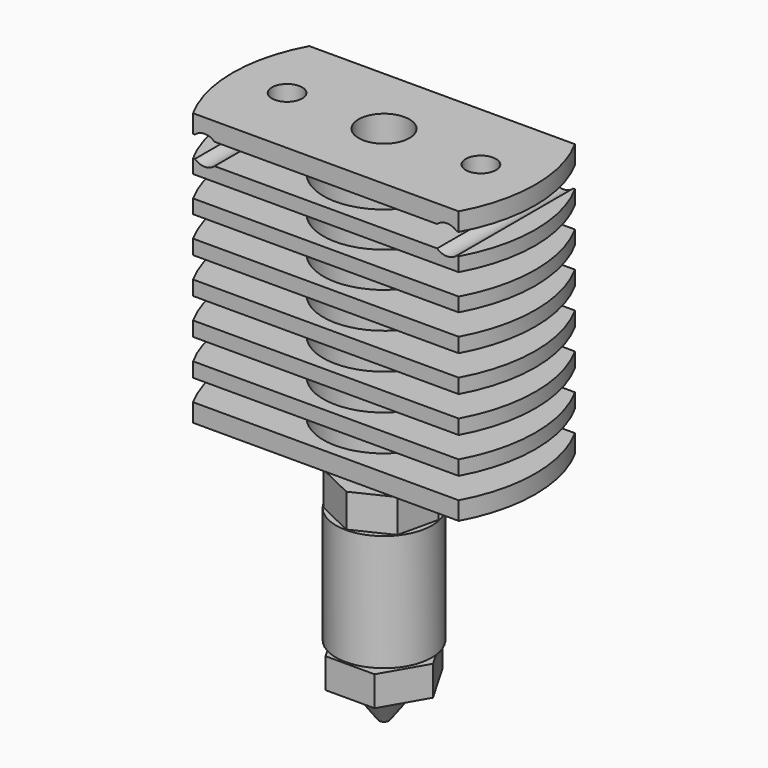
from build123d import *

# Parameters (mm, degrees)
F0_W      = 5
F0_H      = 1.5
F0_W_2    = 7.5
F0_H_2    = 1.7714285714
F0_H_3    = 1.15
F0_H_4    = 1.2
F2_W      = 21.9317121995
F2_H      = 6.5
F3_DEPTH  = 22.501
F5_D      = 4.2
F6_D      = 2.5
F6_DEPTH  = 2
F6_TIP    = 0.7510757738
F7_W      = 1.385
F7_H      = 19.28
F7_W_2    = 1.115
F7_H_2    = 2.3
F7_H_3    = 12.7
F10_DEPTH = 2.75
F12_D     = 3.3
F12_DEPTH = 5.5
F12_TIP   = 0.9914200214
F13_R     = 0.96
F14_DEPTH = 34.281
F15_R     = 3.96
F15_R_2   = 2.5
F16_DEPTH = 9.6
F19_R     = 0.97
F20_DEPTH = 2.47
F24_R     = 2.7289614246
F25_DEPTH = 4.22
F27_D     = 2.4


with BuildPart() as f1:
    # F0 (on Front) → F1 (revolve)
    with BuildSketch(Plane.XZ):
        with Locations((2.5, -0.75)):
            Rectangle(F0_W, F0_H)
        with Locations((8.75, -0.75)):
            Rectangle(F0_W_2, F0_H)
        with Locations((2.5, -2.3857142857)):
            Rectangle(F0_W, F0_H_2)
        with Locations((2.5, -3.8464285714)):
            Rectangle(F0_W, F0_H_3)
        with Locations((8.75, -3.8464285714)):
            Rectangle(F0_W_2, F0_H_3)
        with Locations((2.5, -5.3071428571)):
            Rectangle(F0_W, F0_H_2)
        with Locations((2.5, -6.7678571429)):
            Rectangle(F0_W, F0_H_3)
        with Locations((8.75, -6.7678571429)):
            Rectangle(F0_W_2, F0_H_3)
        with Locations((2.5, -8.2285714286)):
            Rectangle(F0_W, F0_H_2)
        with Locations((2.5, -9.7142857143)):
            Rectangle(F0_W, F0_H_4)
        with Locations((8.75, -9.7142857143)):
            Rectangle(F0_W_2, F0_H_4)
        with Locations((2.5, -11.2)):
            Rectangle(F0_W, F0_H_2)
        with Locations((2.5, -12.6857142857)):
            Rectangle(F0_W, F0_H_4)
        with Locations((8.75, -12.6857142857)):
            Rectangle(F0_W_2, F0_H_4)
        with Locations((2.5, -14.1714285714)):
            Rectangle(F0_W, F0_H_2)
        with Locations((2.5, -15.6571428571)):
            Rectangle(F0_W, F0_H_4)
        with Locations((8.75, -15.6571428571)):
            Rectangle(F0_W_2, F0_H_4)
        with Locations((2.5, -17.1428571429)):
            Rectangle(F0_W, F0_H_2)
        with Locations((2.5, -18.6285714286)):
            Rectangle(F0_W, F0_H_4)
        with Locations((8.75, -18.6285714286)):
            Rectangle(F0_W_2, F0_H_4)
        with Locations((2.5, -20.1142857143)):
            Rectangle(F0_W, F0_H_2)
        with Locations((2.5, -21.75)):
            Rectangle(F0_W, F0_H)
        with Locations((8.75, -21.75)):
            Rectangle(F0_W_2, F0_H)
    revolve(axis=Axis((0, 0, -15.0359268821), (0, 0, -1)))

    # F2 (on Top) → F3 (cut, through all)
    with BuildSketch(Plane.XY):
        with Locations((0, -9.25)):
            Rectangle(F2_W, F2_H)
        with Locations((0, 9.25)):
            Rectangle(F2_W, F2_H)
    extrude(amount=-F3_DEPTH, mode=Mode.SUBTRACT)

    # F5 (through all)
    with Locations(Plane.XY):
        with Locations((0, 0)):
            Hole(F5_D / 2)

    # F6
    with Locations(Plane.XY):
        with Locations((-8, 0), (8, 0)):
            Hole(F6_D / 2, depth=F6_DEPTH)
            with Locations((0, 0, -(F6_DEPTH + F6_TIP / 2))):  # 118° drill point
                Cone(0, F6_D / 2, F6_TIP, mode=Mode.SUBTRACT)

    # F27 (through all)
    with Locations(Plane.XZ.offset(6)):
        with Locations((-10, -2.3857142857), (10, -2.3857142857)):
            Hole(F27_D / 2)


with BuildPart() as f8:
    # F7 (on Front) → F8 (revolve)
    with BuildSketch(Plane.XZ):
        with Locations((0.6925, -12.86)):
            Rectangle(F7_W, F7_H)
        with Locations((1.9425, -12.86)):
            Rectangle(F7_W_2, F7_H)
        with Locations((0.6925, -23.65)):
            Rectangle(F7_W, F7_H_2)
        with Locations((0.6925, -31.15)):
            Rectangle(F7_W, F7_H_3)
        with Locations((1.9425, -31.15)):
            Rectangle(F7_W_2, F7_H_3)
    revolve(axis=Axis((0, 0, -14.0211293474), (0, 0, -1)))

    # F9 (on face) → F10 (join)
    with BuildSketch(Plane.XY.offset(-24.8)):
        Polygon((3.7873092114, 0.864428613), (1.6855111658, 3.5), (-1.6855111658, 3.5), (-3.7873092114, 0.864428613), (-3.0371861738, -2.4220751507), (0, -3.8847069246), (3.0371861738, -2.4220751507), align=None)
    extrude(amount=-F10_DEPTH)

    # F12
    with Locations(Plane(origin=(0, 0, -37.5), x_dir=(1, 0, 0), z_dir=(0, 0, -1))):
        with Locations((0, 0)):
            Hole(F12_D / 2, depth=F12_DEPTH)
            with Locations((0, 0, -(F12_DEPTH + F12_TIP / 2))):  # 118° drill point
                Cone(0, F12_D / 2, F12_TIP, mode=Mode.SUBTRACT)

    # F13 (on face) → F14 (cut, through all)
    with BuildSketch(Plane.XY.offset(-3.22)):
        Circle(F13_R)
    extrude(amount=-F14_DEPTH, mode=Mode.SUBTRACT)


with BuildPart() as f16:
    # F15 (on face) → F16 (new body)
    with BuildSketch(Plane(origin=(0, 0, -27.55), x_dir=(1, 0, 0), z_dir=(0, 0, -1))):
        Circle(F15_R)
        Circle(F15_R_2, mode=Mode.SUBTRACT)
    extrude(amount=F16_DEPTH)


with BuildPart() as f18:
    # F17 (on Front) → F18 (revolve)
    with BuildSketch(Plane.XZ):
        Polygon((1.945, -32.31), (0.97, -32.31), (0.97, -40.3963208782), (0.2, -41.73), (0.2, -42.9), (0.41, -42.9), (2.5, -40.04), (3.5, -40.04), (3.5, -37.57), (1.665, -37.57), (1.665, -36.31), (1.945, -36.31), align=None)
    revolve(axis=Axis((0, 0, -20.0307343887), (0, 0, -1)))

    # F19 (on face) → F20 (join, through all)
    with BuildSketch(Plane.XY.offset(-37.57)):
        Polygon((-4.0414518843, 0), (-2.0207259422, -3.5), (2.0207259422, -3.5), (4.0414518843, 0), (2.0207259422, 3.5), (-2.0207259422, 3.5), align=None)
        Circle(F19_R, mode=Mode.SUBTRACT)
    extrude(amount=-F20_DEPTH)


with BuildPart() as f22:
    # F21 (on Front) → F22 (revolve)
    with BuildSketch(Plane.XZ):
        Polygon((3.88, 11.3), (2.7289614246, 11.3), (2.7289614246, 1.8), (1.055, 1.8), (1.055, -3.2), (2.455, -3.2), (2.455, -0.05), (2.11, -0.05), (2.11, 0.8), (3.88, 0.8), align=None)
    revolve(axis=Axis((0, 0, -6.213388286), (0, 0, -1)))

    # F24 (on offset) → F25 (join)
    with BuildSketch(Plane(origin=(0, 0, 6.3), x_dir=(1, 0, 0), z_dir=(0, 0, -1))):
        Polygon((-4.5899346401, 0), (-2.29496732, -3.975), (2.29496732, -3.975), (4.5899346401, 0), (2.29496732, 3.975), (-2.29496732, 3.975), align=None)
        Circle(F24_R, mode=Mode.SUBTRACT)
    extrude(amount=F25_DEPTH)


with BuildPart() as f29:
    # F28 (on Front) → F29 (revolve)
    with BuildSketch(Plane.XZ):
        with BuildLine():
            Line((3.88, 11.3), (3.88, 12.3))
            Line((3.88, 12.3), (2.475, 12.3))
            Line((2.475, 12.3), (2.475, 13.2))
            Line((2.475, 13.2), (3.88, 13.2))
            Line((3.88, 13.2), (3.88, 14.2))
            ThreePointArc((3.88, 14.2), (3.7335533906, 14.5535533906), (3.38, 14.7))
            Line((3.38, 14.7), (2.095, 14.7))
            Line((2.095, 14.7), (2.095, 11.3))
            Line((2.095, 11.3), (3.88, 11.3))
        make_face()
    revolve(axis=Axis((0, 0, -6.213388286), (0, 0, -1)))


solid = Compound([f1.part, f8.part, f16.part, f18.part])
